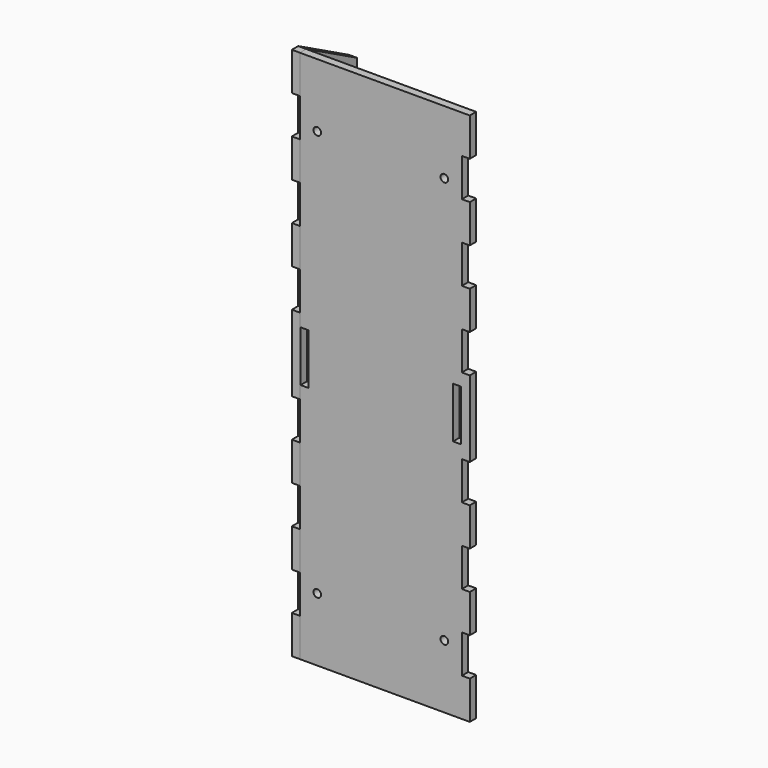
from build123d import *

# Parameters (mm, degrees)
F1_R     = 1.5
F1_W     = 3.125
F1_H     = 20
F2_DEPTH = 3.125
F3_R     = 2.778125
F4_DEPTH = 3.125


with BuildPart() as f2:
    # F1 (on Front) → F2 (new body)
    with BuildSketch(Plane.XZ):
        Polygon((-35, -25), (0, -25), (35, -25), (35, -10), (31.875, -10), (31.875, 5), (35, 5), (35, 20), (31.875, 20), (31.875, 35), (35, 35), (35, 50), (31.875, 50), (31.875, 65), (35, 65), (35, 80), (35, 95), (31.875, 95), (31.875, 110), (35, 110), (35, 125), (31.875, 125), (31.875, 140), (35, 140), (35, 155), (31.875, 155), (31.875, 170), (35, 170), (35, 185), (0, 185), (-35, 185), (-35, 170), (-31.875, 170), (-31.875, 155), (-35, 155), (-35, 140), (-31.875, 140), (-31.875, 125), (-35, 125), (-35, 110), (-31.875, 110), (-31.875, 95), (-35, 95), (-35, 80), (-35, 65), (-31.875, 65), (-31.875, 50), (-35, 50), (-35, 35), (-31.875, 35), (-31.875, 20), (-35, 20), (-35, 5), (-31.875, 5), (-31.875, -10), (-35, -10), align=None)
        with Locations((-25, 0)):
            Circle(F1_R, mode=Mode.SUBTRACT)
        with Locations((25, 0)):
            Circle(F1_R, mode=Mode.SUBTRACT)
        with Locations((-30, 80)):
            Rectangle(F1_W, F1_H, mode=Mode.SUBTRACT)
        with Locations((-25, 160)):
            Circle(F1_R, mode=Mode.SUBTRACT)
        with Locations((30, 80)):
            Rectangle(F1_W, F1_H, mode=Mode.SUBTRACT)
        with Locations((25, 160)):
            Circle(F1_R, mode=Mode.SUBTRACT)
    extrude(amount=F2_DEPTH)


with BuildPart() as f4:
    # F3 (on face) → F4 (new body)
    with BuildSketch(Plane(origin=(-31.875, 0, 0), x_dir=(0, -1, 0), z_dir=(-1, 0, 0))):
        Polygon((-25, -21.8848939985), (0, -25), (3.125, -25), (3.125, -10), (0, -10), (0, 5), (3.125, 5), (3.125, 20), (0, 20), (0, 35), (3.125, 35), (3.125, 50), (0, 50), (0, 65), (3.125, 65), (3.125, 95), (0, 95), (0, 110), (3.125, 110), (3.125, 125), (0, 125), (0, 140), (3.125, 140), (3.125, 155), (0, 155), (0, 170), (3.125, 170), (3.125, 185), (0, 185), (-25, 171.7981100082), align=None)
        with Locations((-11.5, -7)):
            Circle(F3_R, mode=Mode.SUBTRACT)
        with Locations((-11.5, 167)):
            Circle(F3_R, mode=Mode.SUBTRACT)
    extrude(amount=F4_DEPTH)


solid = Compound([f2.part, f4.part])
